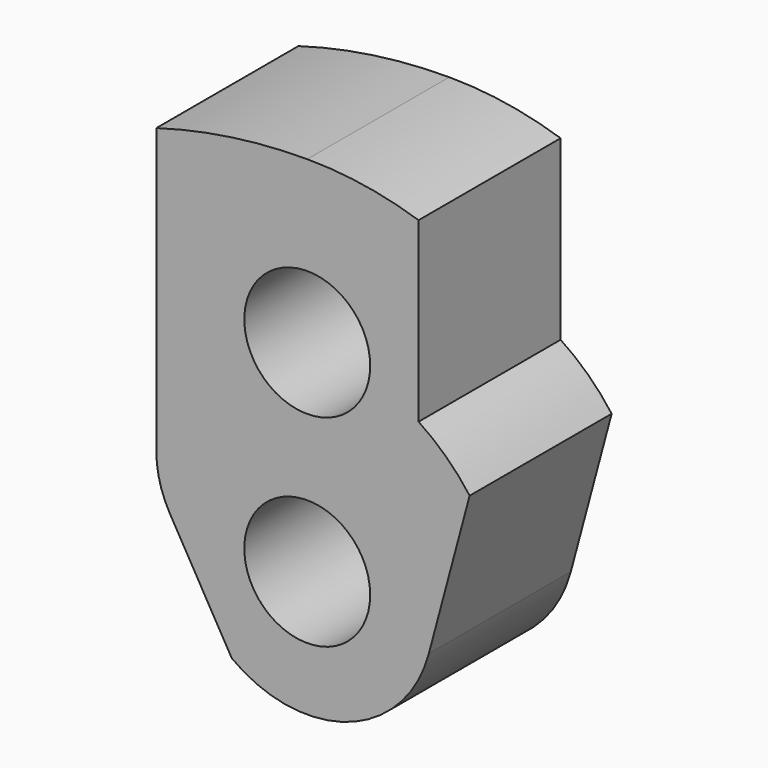
from build123d import *

# Parameters (mm, degrees)
F0_R     = 1.9812
F1_DEPTH = 5.588


with BuildPart() as f1:
    # F0 (on Front) → F1 (new body)
    with BuildSketch(Plane.XZ):
        with BuildLine():
            Line((-4.324431, 0.204432), (-2.375339, -3.171495))
            ThreePointArc((-2.375339, -3.171495), (1.295525, -3.744627), (3.827384, -1.025545))
            Line((3.827384, -1.025545), (5.111656, 3.767422))
            ThreePointArc((5.111656, 3.767422), (4.375598, 4.601809), (3.5052, 5.29491))
            Line((3.5052, 5.29491), (3.5052, 6.35))
            Line((3.5052, 6.35), (3.5052, 10.747292))
            Line((3.5052, 10.747292), (3.5052, 10.879268))
            ThreePointArc((3.5052, 10.879268), (1.774101, 11.291478), (0, 11.43))
            ThreePointArc((0, 11.43), (-2.399307, 11.258451), (-4.7498, 10.747292))
            Line((-4.7498, 10.747292), (-4.7498, 4.51846))
            Line((-4.7498, 4.51846), (-4.7498, 1.791932))
            ThreePointArc((-4.7498, 1.791932), (-4.641614, 0.970181), (-4.324431, 0.204432))
        make_face()
        Circle(F0_R, mode=Mode.SUBTRACT)
        with Locations((0, 6.35)):
            Circle(F0_R, mode=Mode.SUBTRACT)
    extrude(amount=F1_DEPTH)


solid = f1.part
